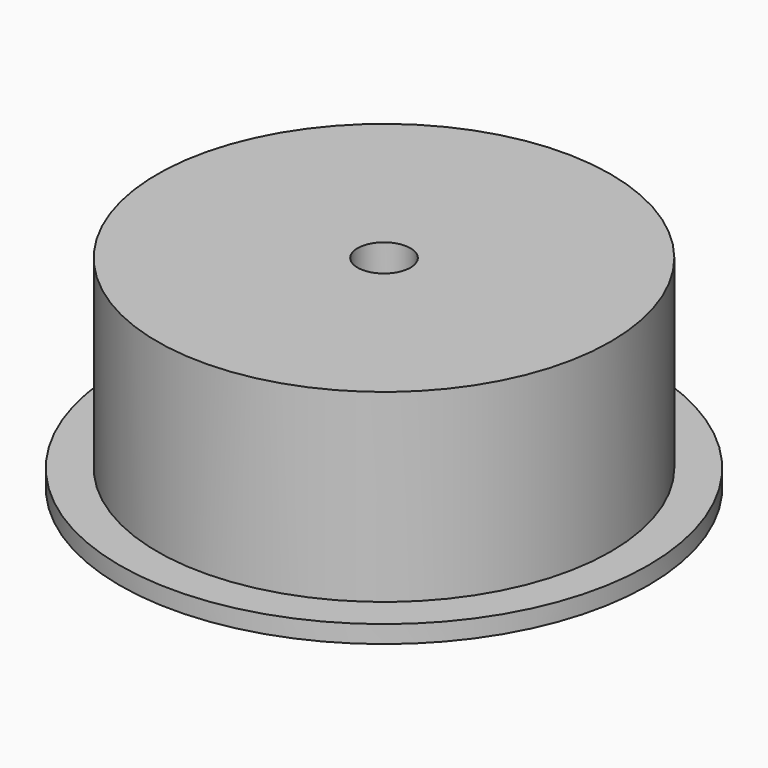
from build123d import *

# Parameters (mm, degrees)
F0_R     = 30
F1_DEPTH = 2
F2_R     = 25.75
F3_DEPTH = 21
F4_R     = 20
F5_DEPTH = 18
F6_R     = 3
F7_DEPTH = 5.001


with BuildPart() as f1:
    # F0 (on Top) → F1 (new body)
    with BuildSketch(Plane.XY):
        Circle(F0_R)
    extrude(amount=F1_DEPTH)

    # F2 (on face) → F3 (join)
    with BuildSketch(Plane.XY.offset(2)):
        Circle(F2_R)
    extrude(amount=F3_DEPTH)

    # F4 (on face) → F5 (cut)
    with BuildSketch(Plane(origin=(0, 0, 0), x_dir=(1, 0, 0), z_dir=(0, 0, -1))):
        Circle(F4_R)
    extrude(amount=-F5_DEPTH, mode=Mode.SUBTRACT)

    # F6 (on face) → F7 (cut, through all)
    with BuildSketch(Plane(origin=(0, 0, 18), x_dir=(1, 0, 0), z_dir=(0, 0, -1))):
        Circle(F6_R)
    extrude(amount=-F7_DEPTH, mode=Mode.SUBTRACT)


solid = f1.part
